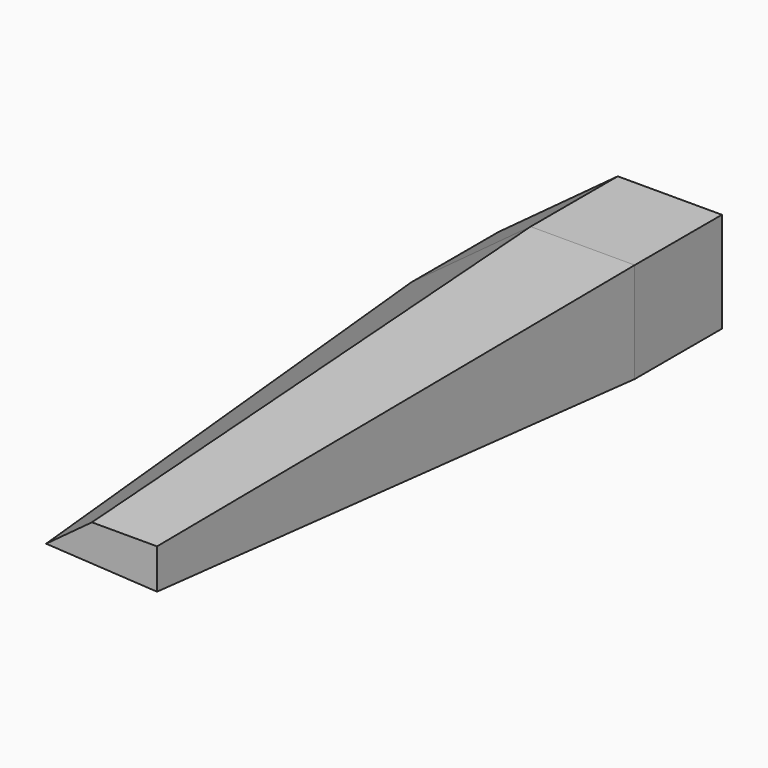
from build123d import *

# Parameters (mm, degrees)
F2_DEPTH      = 130.556
F2_TAPER      = 3
F2_DEPTH_BACK = 25.4


with BuildPart() as f2:
    # F0 (on Front) → F2 (new body, two sides)
    with BuildSketch(Plane.XZ) as f2_sk:
        Polygon((-35.6864742935, 51.5547506511), (-63.5036155581, 31.080128625), (-11.4249363542, 28.1776394695), (-11.4249363542, 51.5547506511), align=None)
    extrude(amount=F2_DEPTH, taper=F2_TAPER)
    extrude(f2_sk.sketch, amount=-F2_DEPTH_BACK)


solid = f2.part
